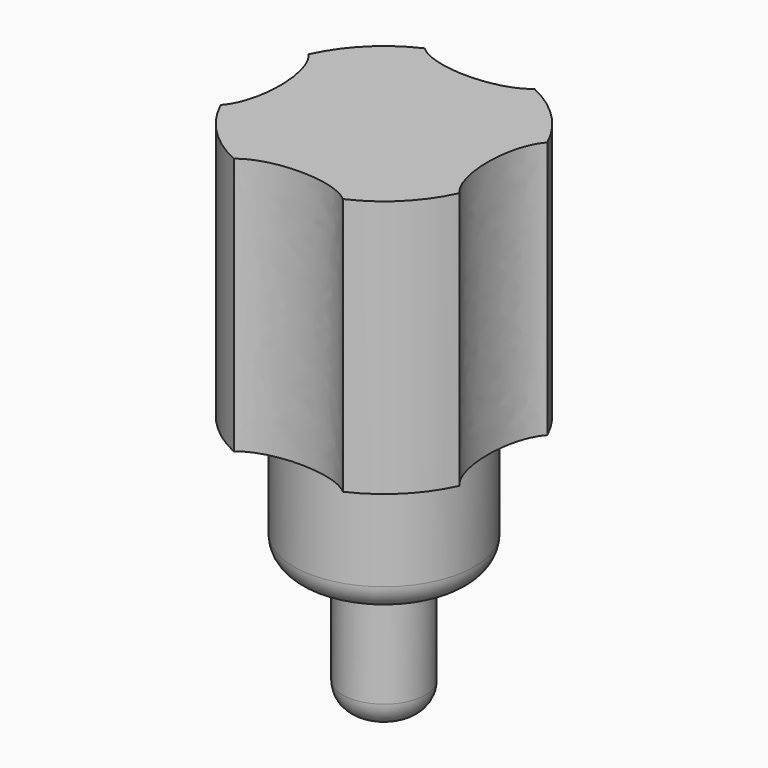
from build123d import *

# Parameters (mm, degrees)
F0_R     = 3.5
F0_R_2   = 1.6
F1_DEPTH = 10
F2_DEPTH = 15
F3_DEPTH = 20
F4_R     = 1
F5_R     = 1


with BuildPart() as f1:
    # F0 (on Top) → F1 (new body)
    with BuildSketch(Plane.XY):
        with BuildLine():
            add(Edge.make_bspline(
                [(4.634574, 2.128549), (2.615488, 0), (4.634574, -2.128549)],
                knots=[0.447616, 0.447616, 0.447616, 2.693977, 2.693977, 2.693977], degree=2, weights=[1, 0.432817, 1]))
            ThreePointArc((4.634574, 2.128549), (3.606245, 3.606245), (2.128549, 4.634574))
            add(Edge.make_bspline(
                [(0, 4.02466), (1.485569, 4.02466), (2.128549, 4.634574)],
                knots=[4.712389, 4.712389, 4.712389, 5.83557, 5.83557, 5.83557], degree=2, weights=[1, 0.846409, 1]))
            add(Edge.make_bspline(
                [(-2.128549, 4.634574), (-1.485569, 4.02466), (0, 4.02466)],
                knots=[3.589208, 3.589208, 3.589208, 4.712389, 4.712389, 4.712389], degree=2, weights=[1, 0.846409, 1]))
            ThreePointArc((-2.128549, 4.634574), (-3.606245, 3.606245), (-4.634574, 2.128549))
            add(Edge.make_bspline(
                [(-4.02466, 0), (-4.02466, 1.485569), (-4.634574, 2.128549)],
                knots=[4.712389, 4.712389, 4.712389, 5.83557, 5.83557, 5.83557], degree=2, weights=[1, 0.846409, 1]))
            add(Edge.make_bspline(
                [(-4.634574, -2.128549), (-4.02466, -1.485569), (-4.02466, 0)],
                knots=[3.589208, 3.589208, 3.589208, 4.712389, 4.712389, 4.712389], degree=2, weights=[1, 0.846409, 1]))
            ThreePointArc((-4.634574, -2.128549), (-3.601913, -3.610571), (-2.117417, -4.639671))
            add(Edge.make_bspline(
                [(2.114265, -4.641108), (0.001609, -2.694942), (-2.117417, -4.639671)],
                knots=[0.459148, 0.459148, 0.459148, 2.680954, 2.680954, 2.680954], degree=2, weights=[1, 0.443853, 1]))
            ThreePointArc((2.114265, -4.641108), (3.600687, -3.611794), (4.634574, -2.128549))
        make_face()
        Circle(F0_R, mode=Mode.SUBTRACT)
        Circle(F0_R)
        Circle(F0_R_2, mode=Mode.SUBTRACT)
        Circle(F0_R_2)
    extrude(amount=-F1_DEPTH)

    # F0 (on Top) → F2 (join)
    with BuildSketch(Plane.XY):
        Circle(F0_R)
        Circle(F0_R_2, mode=Mode.SUBTRACT)
    extrude(amount=-F2_DEPTH)

    # F0 (on Top) → F3 (join)
    with BuildSketch(Plane.XY):
        Circle(F0_R_2)
    extrude(amount=-F3_DEPTH)

    # F4
    f4_edges = [f1.edges().sort_by_distance(p)[0] for p in [
        (-1.6, 0, -20),
    ]]
    fillet(f4_edges, radius=F4_R)

    # F5
    f5_edges = [f1.edges().sort_by_distance(p)[0] for p in [
        (-3.5, 0, -15),
    ]]
    fillet(f5_edges, radius=F5_R)


solid = f1.part
